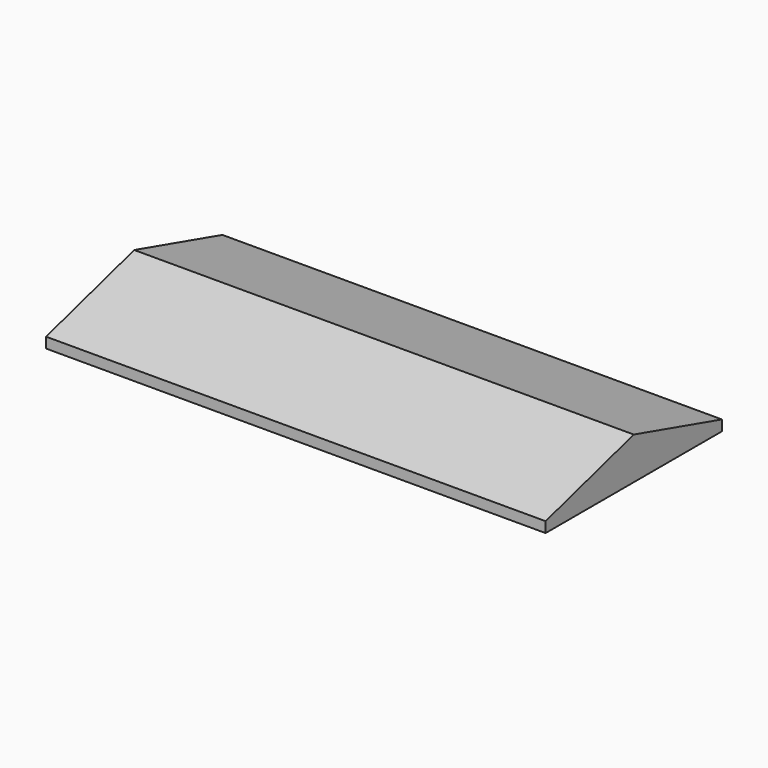
from build123d import *

# Parameters (mm, degrees)
F0_W     = 476
F0_H     = 210
F0_R     = 70
F1_DEPTH = 10
F3_DEPTH = 476


with BuildPart() as f1:
    # F0 (on Top) → F1 (new body)
    with BuildSketch(Plane.XY):
        with Locations((-90.735852, -15.219371)):
            Rectangle(F0_W, F0_H)
        with Locations((-251.802179, -15.219371)):
            Circle(F0_R, mode=Mode.SUBTRACT)
        with Locations((-91.802179, -15.219371)):
            Circle(F0_R, mode=Mode.SUBTRACT)
        with Locations((68.197821, -15.219371)):
            Circle(F0_R, mode=Mode.SUBTRACT)
    extrude(amount=F1_DEPTH)

    # F2 (on face) → F3 (join)
    with BuildSketch(Plane.YZ.offset(147.264148)):
        Polygon((-120.219371, 10), (-15.219371, 10), (-15.219371, 40), align=None)
        Polygon((-15.219371, 40), (-15.219371, 10), (89.780629, 10), align=None)
    extrude(amount=-F3_DEPTH)


solid = f1.part
